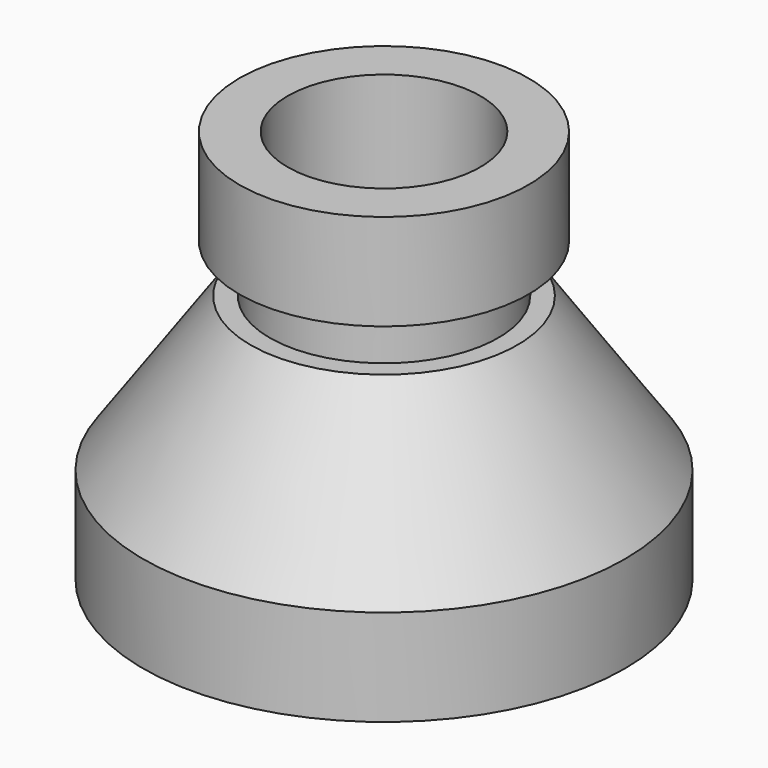
from build123d import *

# Parameters (mm, degrees)
F2_R     = 5.5
F3_DEPTH = 25


with BuildPart() as f1:
    # F0 (on Front) → F1 (revolve)
    with BuildSketch(Plane.XZ):
        Polygon((-25, 0), (0, 0), (0, 5), (-10, 5), (-10, 40.923497), (-15, 40.923497), (-15, 30.923497), (-11.850247, 30.923497), (-11.850247, 25.923497), (-13.850247, 25.923497), (-25, 10), align=None)
    revolve(axis=Axis((0, 0, 25), (0, 0, 1)))

    # F2 (on face) → F3 (cut)
    with BuildSketch(Plane(origin=(0, 0, 0), x_dir=(1, 0, 0), z_dir=(0, 0, -1))):
        Circle(F2_R)
    extrude(amount=-F3_DEPTH, mode=Mode.SUBTRACT)


solid = f1.part
